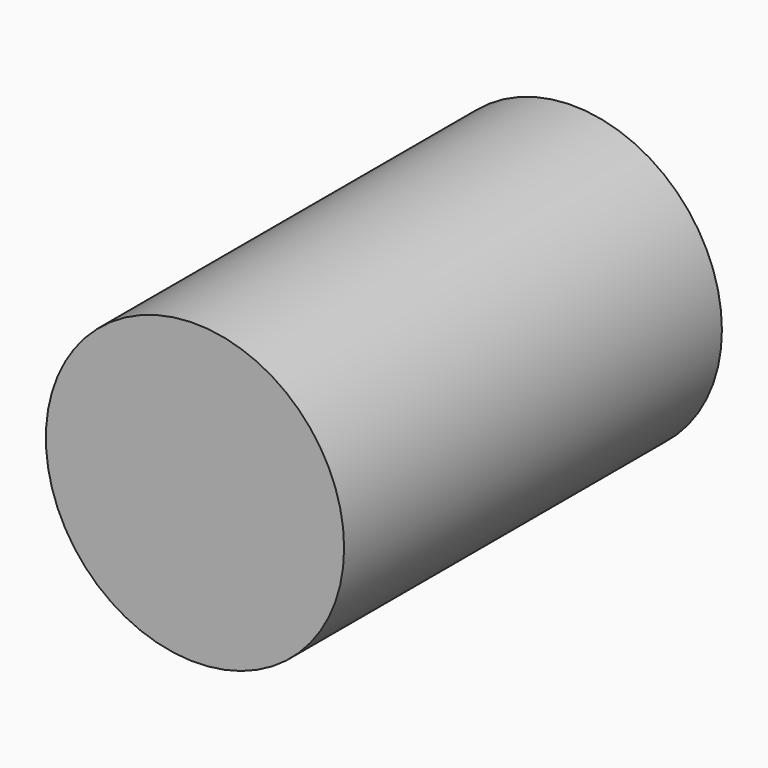
from build123d import *

# Parameters (mm, degrees)
F0_R     = 9.525
F1_DEPTH = 30.1625
F2_R     = 0.79375
F3_DEPTH = 6.35


with BuildPart() as f1:
    # F0 (on Front) → F1 (new body)
    with BuildSketch(Plane.XZ):
        with Locations((-110.79631, 17.808244)):
            Circle(F0_R)
    extrude(amount=F1_DEPTH)

    # F2 (on face) → F3 (join)
    with BuildSketch(Plane(origin=(0, 0, 0), x_dir=(-1, 0, 0), z_dir=(0, 1, 0))):
        with Locations((110.79631, 17.808244)):
            Circle(F2_R)
    extrude(amount=F3_DEPTH)


solid = f1.part
